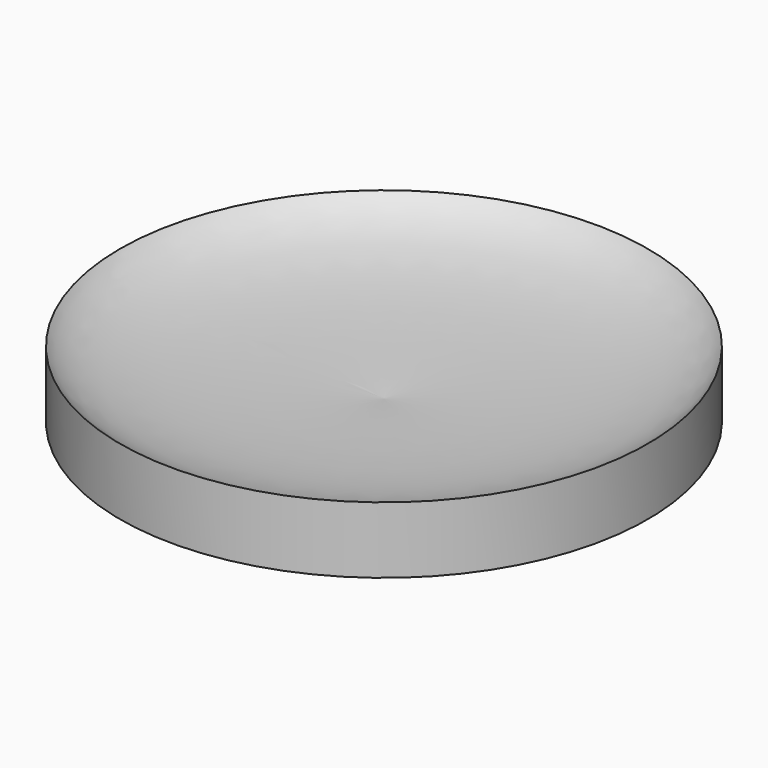
from build123d import *


with BuildPart() as f1:
    # F0 (on Front) → F1 (revolve)
    with BuildSketch(Plane.XZ):
        with BuildLine():
            Line((-25.4, 0), (0, 0))
            Line((0, 0), (0, 1.975556))
            add(Edge.make_bspline(
                [(-25.4, 6.397037), (-21.731111, 2.163704), (-7.808148, 2.634074), (0, 1.975556)],
                knots=[0, 0, 0, 0, 25.781961, 25.781961, 25.781961, 25.781961], degree=3))
            Line((-25.4, 6.397037), (-25.4, 0))
        make_face()
    revolve(axis=Axis((0, 0, 0.987778), (0, 0, 1)))


solid = f1.part
